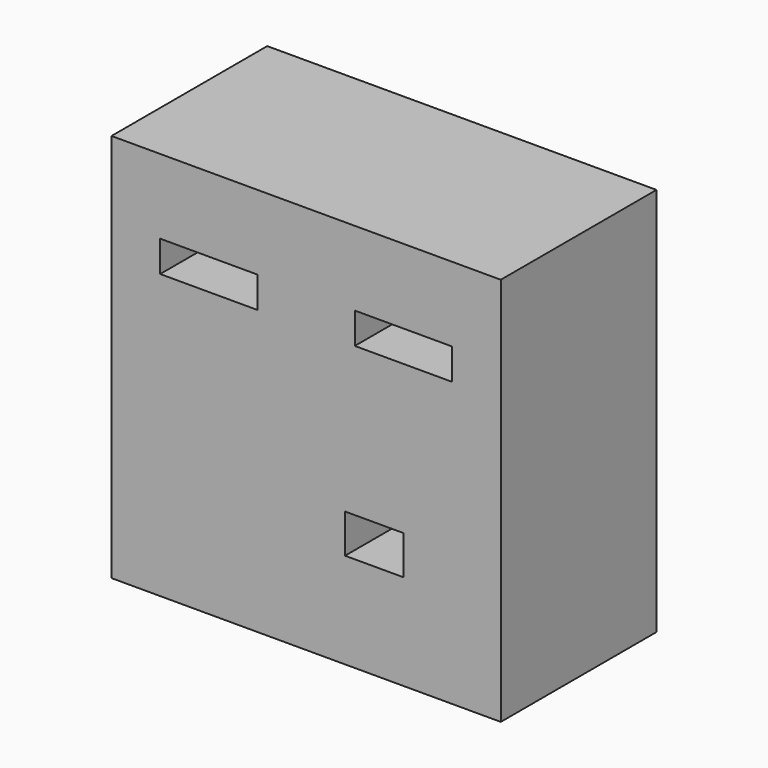
from build123d import *

# Parameters (mm, degrees)
F0_W     = 25.4
F0_H     = 25.4
F1_DEPTH = 6.35
F2_W     = 25.4
F2_H     = 25.4
F2_W_2   = 3.81
F2_H_2   = 2.54
F2_W_3   = 6.35
F2_H_3   = 2.032
F3_DEPTH = 6.35


with BuildPart() as f1:
    # F0 (on Front) → F1 (new body)
    with BuildSketch(Plane.XZ):
        Rectangle(F0_W, F0_H)
    extrude(amount=F1_DEPTH)

    # F2 (on face) → F3 (join)
    with BuildSketch(Plane.XZ.offset(6.35)):
        Rectangle(F2_W, F2_H)
        with Locations((4.445, -5.186341)):
            Rectangle(F2_W_2, F2_H_2, mode=Mode.SUBTRACT)
        with Locations((-6.35, 6.817146)):
            Rectangle(F2_W_3, F2_H_3, mode=Mode.SUBTRACT)
        with Locations((6.35, 6.817146)):
            Rectangle(F2_W_3, F2_H_3, mode=Mode.SUBTRACT)
    extrude(amount=F3_DEPTH)


solid = f1.part
